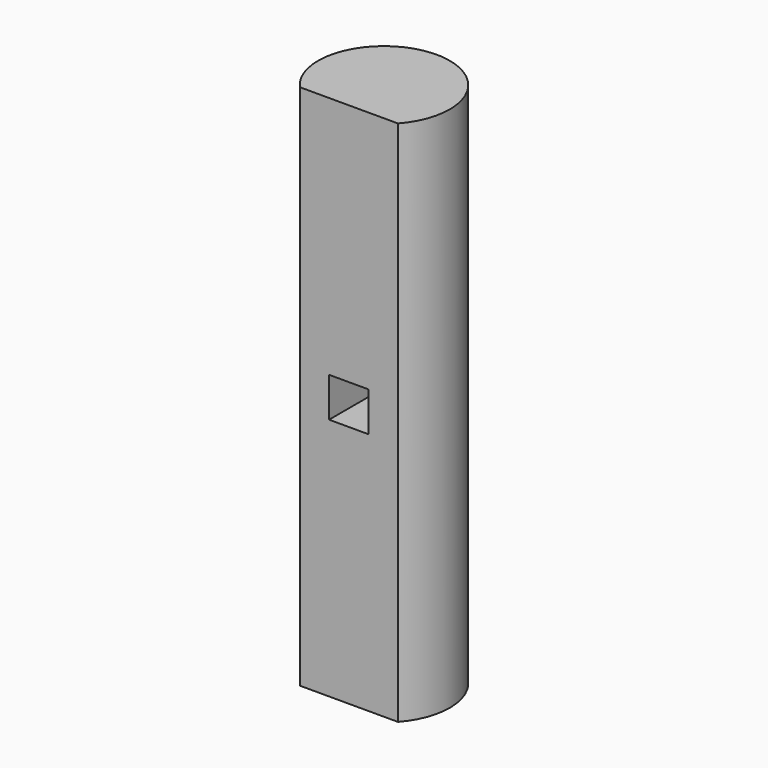
from build123d import *

# Parameters (mm, degrees)
F1_DEPTH = 60
F2_W     = 4.5
F2_H     = 4.5
F3_DEPTH = 10


with BuildPart() as f1:
    # F0 (on Top) → F1 (new body)
    with BuildSketch(Plane.XY):
        with BuildLine():
            Line((-5.59017, -5), (5.59017, -5))
            ThreePointArc((5.59017, -5), (0, 7.5), (-5.59017, -5))
        make_face()
    extrude(amount=F1_DEPTH)

    # F2 (on Front) → F3 (cut, symmetric)
    with BuildSketch(Plane.XZ):
        with Locations((0, 30)):
            Rectangle(F2_W, F2_H)
    extrude(amount=F3_DEPTH, both=True, mode=Mode.SUBTRACT)


solid = f1.part
